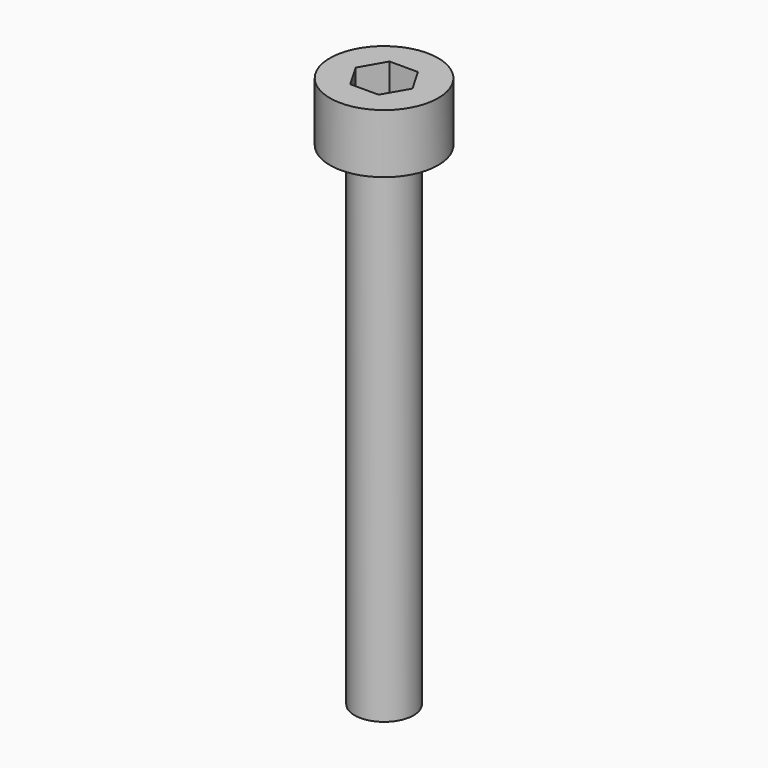
from build123d import *

# Parameters (mm, degrees)
SKETCH_R     = 2.75
PAD_DEPTH    = 3
SKETCH001_R  = 1.5
PAD001_DEPTH = 25
POCKET_DEPTH = 4


with BuildPart() as part:
    # Sketch → Pad (new body)
    with BuildSketch(Plane.XY):
        Circle(SKETCH_R)
    extrude(amount=PAD_DEPTH)

    # Sketch001 (on Face2 of Pad) → Pad001 (join)
    with BuildSketch(Plane(origin=(0, 0, 0), x_dir=(1, 0, 0), z_dir=(0, 0, -1))):
        Circle(SKETCH001_R)
    extrude(amount=PAD001_DEPTH)

    # Sketch002 (on DatumPlane) → Pocket (cut)
    with BuildSketch(Plane.XY.offset(3)):
        Polygon((0.721688, -1.25), (1.443376, 0), (0.721688, 1.25), (-0.721688, 1.25), (-1.443376, 0), (-0.721688, -1.25), align=None)
    extrude(amount=-POCKET_DEPTH, mode=Mode.SUBTRACT)


solid = part.part
